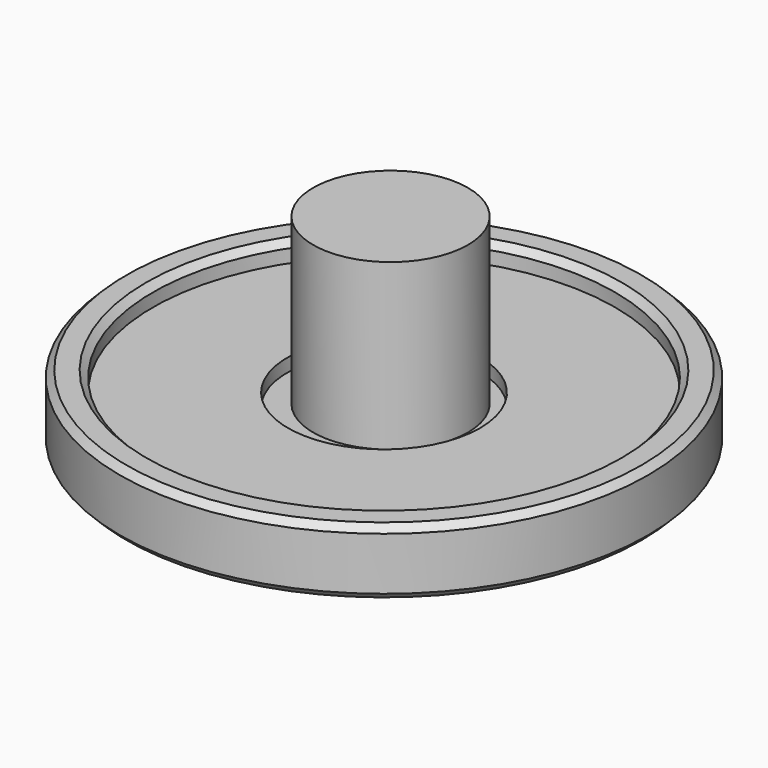
from build123d import *

# Parameters (mm, degrees)
F0_R      = 40
F1_DEPTH  = 10
F2_R      = 35
F3_DEPTH  = 3
F4_R      = 35
F5_DEPTH  = 3
F6_SIZE   = 1
F7_R      = 14.543107
F8_DEPTH  = 2
F9_R      = 11.723212
F10_DEPTH = 25


with BuildPart() as f1:
    # F0 (on Top) → F1 (new body)
    with BuildSketch(Plane.XY):
        Circle(F0_R)
    extrude(amount=F1_DEPTH)

    # F2 (on face) → F3 (cut)
    with BuildSketch(Plane.XY.offset(10)):
        Circle(F2_R)
    extrude(amount=-F3_DEPTH, mode=Mode.SUBTRACT)

    # F4 (on face) → F5 (cut)
    with BuildSketch(Plane(origin=(0, 0, 0), x_dir=(1, 0, 0), z_dir=(0, 0, -1))):
        Circle(F4_R)
    extrude(amount=-F5_DEPTH, mode=Mode.SUBTRACT)

    # F6
    f6_edges = [f1.edges().sort_by_distance(p)[0] for p in [
        (-35, 0, 10),
        (-40, 0, 10),
        (-40, 0, 0),
        (-35, 0, 0),
    ]]
    chamfer(f6_edges, length=F6_SIZE)

    # F7 (on face) → F8 (cut)
    with BuildSketch(Plane.XY.offset(7)):
        Circle(F7_R)
    extrude(amount=-F8_DEPTH, mode=Mode.SUBTRACT)

    # F9 (on face) → F10 (join)
    with BuildSketch(Plane.XY.offset(5)):
        with Locations((0, 1.236479)):
            Circle(F9_R)
    extrude(amount=F10_DEPTH)


solid = f1.part
